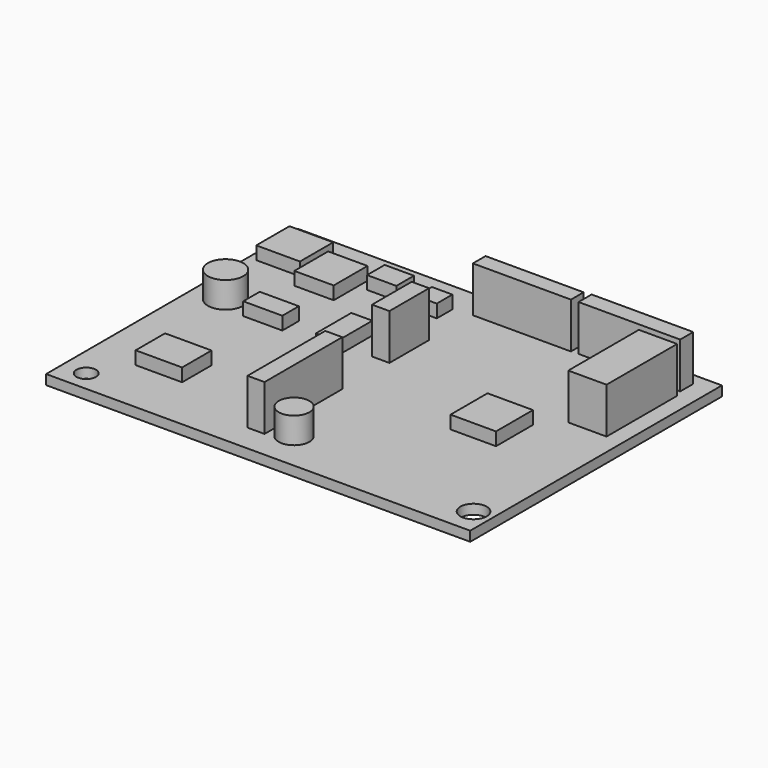
from build123d import *

# Parameters (mm, degrees)
F0_W     = 65
F0_H     = 48.220679
F0_R     = 1.491954
F0_W_2   = 7.12351
F0_H_2   = 5.636183
F0_R_2   = 2.348409
F0_R_3   = 2.019025
F0_W_3   = 6.966946
F0_H_3   = 7.08437
F0_R_4   = 2.712275
F0_W_4   = 5.990132
F0_H_4   = 3.159632
F0_W_5   = 3.225457
F0_H_5   = 6.780042
F0_W_6   = 6.697657
F0_H_6   = 6.365542
F0_W_7   = 6.033428
F0_H_7   = 6.476249
F0_W_8   = 3.155096
F0_H_8   = 2.989037
F0_W_9   = 4.483557
F0_H_9   = 3.376505
F0_W_10  = 5.864762
F0_H_10  = 13.520941
F1_DEPTH = 1.5
F2_DEPTH = 2
F3_DEPTH = 4
F4_DEPTH = 7
F5_W     = 2.606562
F5_H     = 14.894642
F5_W_2   = 2.66153
F5_H_2   = 7.59319
F5_W_3   = 15.029821
F5_H_3   = 2.42669
F5_W_4   = 15.577784
F5_H_4   = 2.504971
F6_DEPTH = 7


with BuildPart() as f1:
    # F0 (on Top) → F1 (new body)
    with BuildSketch(Plane.XY):
        with Locations((15.373986, 7.248863)):
            Rectangle(F0_W, F0_H)
        with Locations((-13.490251, -13.718908)):
            Circle(F0_R, mode=Mode.SUBTRACT)
        with Locations((-6.637482, -5.545355)):
            Rectangle(F0_W_2, F0_H_2, mode=Mode.SUBTRACT)
        with Locations((16.112888, -10.907532)):
            Circle(F0_R_2, mode=Mode.SUBTRACT)
        with Locations((45.080185, -12.724719)):
            Circle(F0_R_3, mode=Mode.SUBTRACT)
        with Locations((33.124202, 5.70149)):
            Rectangle(F0_W_3, F0_H_3, mode=Mode.SUBTRACT)
        with Locations((-12.451392, 11.686808)):
            Circle(F0_R_4, mode=Mode.SUBTRACT)
        with Locations((-5.081796, 11.177822)):
            Rectangle(F0_W_4, F0_H_4, mode=Mode.SUBTRACT)
        with Locations((5.516132, 11.934817)):
            Rectangle(F0_W_5, F0_H_5, mode=Mode.SUBTRACT)
        with Locations((-12.56736, 25.071582)):
            Rectangle(F0_W_6, F0_H_6, mode=Mode.SUBTRACT)
        with Locations((-5.205472, 22.802127)):
            Rectangle(F0_W_7, F0_H_7, mode=Mode.SUBTRACT)
        with Locations((8.798722, 25.099258)):
            Rectangle(F0_W_8, F0_H_8, mode=Mode.SUBTRACT)
        with Locations((1.492187, 25.846517)):
            Rectangle(F0_W_9, F0_H_9, mode=Mode.SUBTRACT)
        with Locations((42.443838, 19.138021)):
            Rectangle(F0_W_10, F0_H_10, mode=Mode.SUBTRACT)
        with Locations((-12.451392, 11.686808)):
            Circle(F0_R_4)
        with Locations((-6.637482, -5.545355)):
            Rectangle(F0_W_2, F0_H_2)
        with Locations((-5.081796, 11.177822)):
            Rectangle(F0_W_4, F0_H_4)
        with Locations((-5.205472, 22.802127)):
            Rectangle(F0_W_7, F0_H_7)
        with Locations((-12.56736, 25.071582)):
            Rectangle(F0_W_6, F0_H_6)
        with Locations((1.492187, 25.846517)):
            Rectangle(F0_W_9, F0_H_9)
        with Locations((5.516132, 11.934817)):
            Rectangle(F0_W_5, F0_H_5)
        with Locations((8.798722, 25.099258)):
            Rectangle(F0_W_8, F0_H_8)
        with Locations((16.112888, -10.907532)):
            Circle(F0_R_2)
        with Locations((33.124202, 5.70149)):
            Rectangle(F0_W_3, F0_H_3)
        with Locations((42.443838, 19.138021)):
            Rectangle(F0_W_10, F0_H_10)
    extrude(amount=-F1_DEPTH)

    # F0 (on Top) → F2 (join)
    with BuildSketch(Plane.XY):
        with Locations((-12.56736, 25.071582)):
            Rectangle(F0_W_6, F0_H_6)
        with Locations((-5.205472, 22.802127)):
            Rectangle(F0_W_7, F0_H_7)
        with Locations((-5.081796, 11.177822)):
            Rectangle(F0_W_4, F0_H_4)
        with Locations((5.516132, 11.934817)):
            Rectangle(F0_W_5, F0_H_5)
        with Locations((1.492187, 25.846517)):
            Rectangle(F0_W_9, F0_H_9)
        with Locations((8.798722, 25.099258)):
            Rectangle(F0_W_8, F0_H_8)
        with Locations((33.124202, 5.70149)):
            Rectangle(F0_W_3, F0_H_3)
        with Locations((-6.637482, -5.545355)):
            Rectangle(F0_W_2, F0_H_2)
    extrude(amount=F2_DEPTH)

    # F0 (on Top) → F3 (join)
    with BuildSketch(Plane.XY):
        with Locations((-12.451392, 11.686808)):
            Circle(F0_R_4)
        with Locations((16.112888, -10.907532)):
            Circle(F0_R_2)
    extrude(amount=F3_DEPTH)

    # F0 (on Top) → F4 (join)
    with BuildSketch(Plane.XY):
        with Locations((42.443838, 19.138021)):
            Rectangle(F0_W_10, F0_H_10)
    extrude(amount=F4_DEPTH)

    # F5 (on face) → F6 (join)
    with BuildSketch(Plane.XY):
        with Locations((11.685232, -5.207297)):
            Rectangle(F5_W, F5_H)
        with Locations((11.835448, 14.843981)):
            Rectangle(F5_W_2, F5_H_2)
        with Locations((20.759405, 28.151636)):
            Rectangle(F5_W_3, F5_H_3)
        with Locations((37.159131, 28.269056)):
            Rectangle(F5_W_4, F5_H_4)
    extrude(amount=F6_DEPTH)


solid = f1.part
